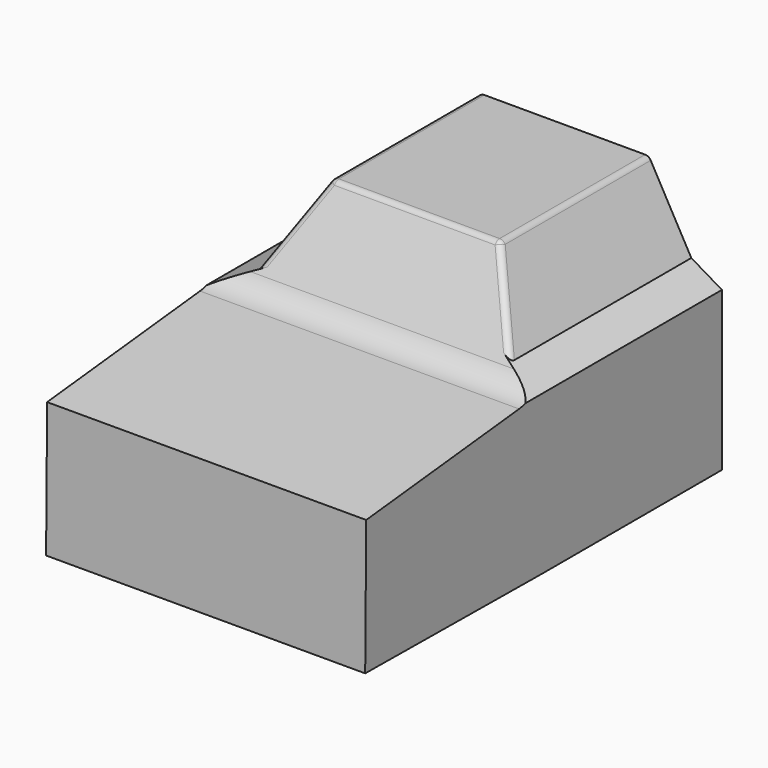
from build123d import *

# Parameters (mm, degrees)
F1_DEPTH = 89.1325119883
F3_DEPTH = 77.1384909749
F4_DEPTH = 218.7686692923
F5_T     = -2.54
F6_R     = 15.5818396181
F7_R     = 3.0969406223


with BuildPart() as f1:
    # F0 (on Front) → F1 (new body)
    with BuildSketch(Plane.XZ):
        Polygon((-77.014118433, 0), (-77.014118433, -76.4366090298), (76.849937439, -76.4366090298), (76.849937439, 0), (62.097877264, 8.7319239974), (41.6193008423, 45.3698374331), (-39.5245552063, 45.4712845385), (-59.4715923071, 8.7319239974), align=None)
    extrude(amount=-F1_DEPTH)

    # F2 (on Right) → F3 (join, symmetric)
    with BuildSketch(Plane.YZ):
        Polygon((0, -76.6211944324), (0, 46.0868030787), (-24.9364376068, 0), (-125.2473463191, -10.5374917338), (-125.8752644062, -75.4026770592), align=None)
    extrude(amount=F3_DEPTH, both=True)

    # F4 (cut): a face of the model
    f4_faces = [f1.faces().sort_by_distance(p)[0] for p in [
        (76.9413650258, 0, -15.2671956769),
    ]]
    extrude(f4_faces, amount=-F4_DEPTH, mode=Mode.SUBTRACT)

    # F5
    f5_openings = [f1.faces().sort_by_distance(p)[0] for p in [
        (-0.08209, -72.471652, -75.919643),
        (-0.08209, 35.032237, -76.436609),
    ]]
    offset(amount=F5_T, openings=f5_openings, kind=Kind.INTERSECTION)

    # F6
    f6_edges = [f1.edges().sort_by_distance(p)[0] for p in [
        (-0.08209, -24.936438, 0),
    ]]
    fillet(f6_edges, radius=F6_R)

    # F7
    f7_edges = [f1.edges().sort_by_distance(p)[0] for p in [
        (-49.498074, -10.272425, 27.101604),
        (51.858589, -10.29987, 27.050881),
        (1.047373, -0.360487, 45.420561),
        (41.619301, 44.37229, 45.369837),
        (-39.524555, 44.399735, 45.471285),
    ]]
    fillet(f7_edges, radius=F7_R)


solid = f1.part
